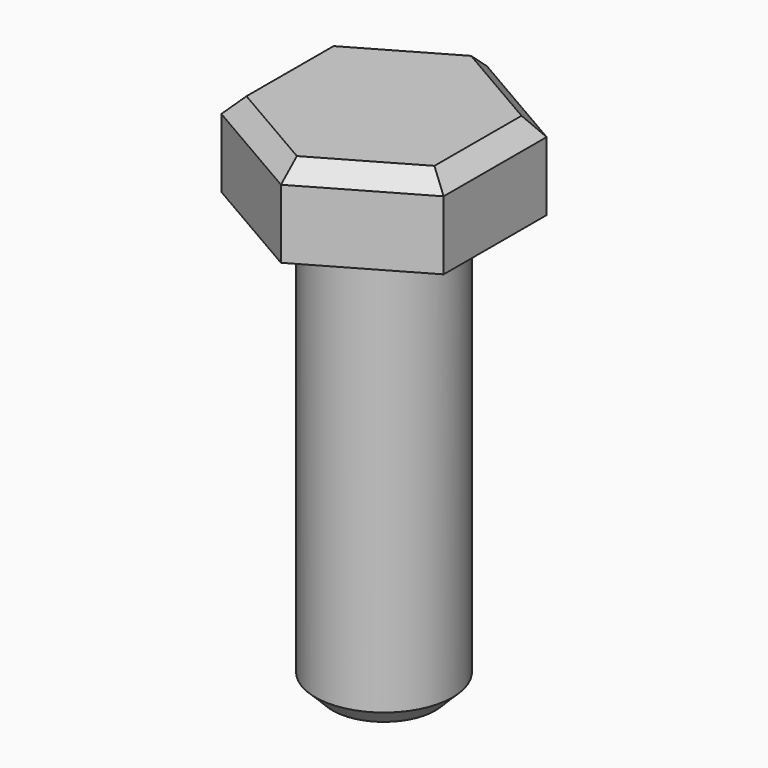
from build123d import *

# Parameters (mm, degrees)
F1_DEPTH = 5
F2_R     = 4
F3_DEPTH = 25
F4_SIZE  = 1
F5_SIZE  = 1


with BuildPart() as f1:
    # F0 (on Top) → F1 (new body)
    with BuildSketch(Plane.XY):
        Polygon((-0.013194, -7.479013), (6.470418, -3.750933), (6.483613, 3.72808), (0.013194, 7.479013), (-6.470418, 3.750933), (-6.483613, -3.72808), align=None)
    extrude(amount=F1_DEPTH)

    # F2 (on Top) → F3 (join)
    with BuildSketch(Plane.XY):
        Circle(F2_R)
    extrude(amount=-F3_DEPTH)

    # F4
    f4_edges = [f1.edges().sort_by_distance(p)[0] for p in [
        (-4, 0, -25),
    ]]
    chamfer(f4_edges, length=F4_SIZE)

    # F5
    f5_edges = [f1.edges().sort_by_distance(p)[0] for p in [
        (6.477015, -0.011427, 5),
        (3.228612, -5.614973, 5),
        (3.248403, 5.603547, 5),
        (-6.477015, 0.011427, 5),
        (-3.248403, -5.603547, 5),
        (-3.228612, 5.614973, 5),
    ]]
    chamfer(f5_edges, length=F5_SIZE)


solid = f1.part
